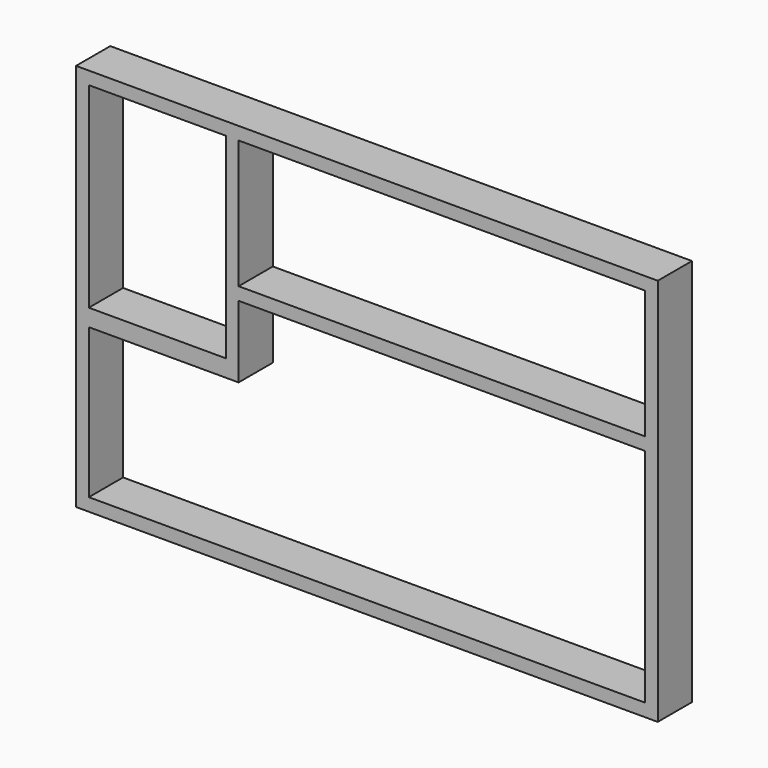
from build123d import *

# Parameters (mm, degrees)
F0_W     = 40.65304
F0_H     = 58.169544
F1_DEPTH = 12.7


with BuildPart() as f1:
    # F0 (on Front) → F1 (new body)
    with BuildSketch(Plane.XZ):
        Polygon((-84.8471, 63.503544), (-84.8471, -51.816), (87.8729, -51.816), (87.8729, 17.776456), (87.8729, 63.503544), align=None)
        Polygon((84.020192, -48.006), (-81.041844, -48.006), (-81.041844, -3.556), (-40.388804, -3.556), (-36.578804, -3.556), (-36.578804, 17.783544), (84.020192, 17.780001), (84.020192, -5.125851), align=None, mode=Mode.SUBTRACT)
        with Locations((-60.715324, 30.608772)):
            Rectangle(F0_W, F0_H, mode=Mode.SUBTRACT)
        Polygon((84.071196, 59.69), (84.071196, 21.59), (-36.578804, 21.593544), (-36.578804, 59.693544), align=None, mode=Mode.SUBTRACT)
    extrude(amount=F1_DEPTH)


solid = f1.part
